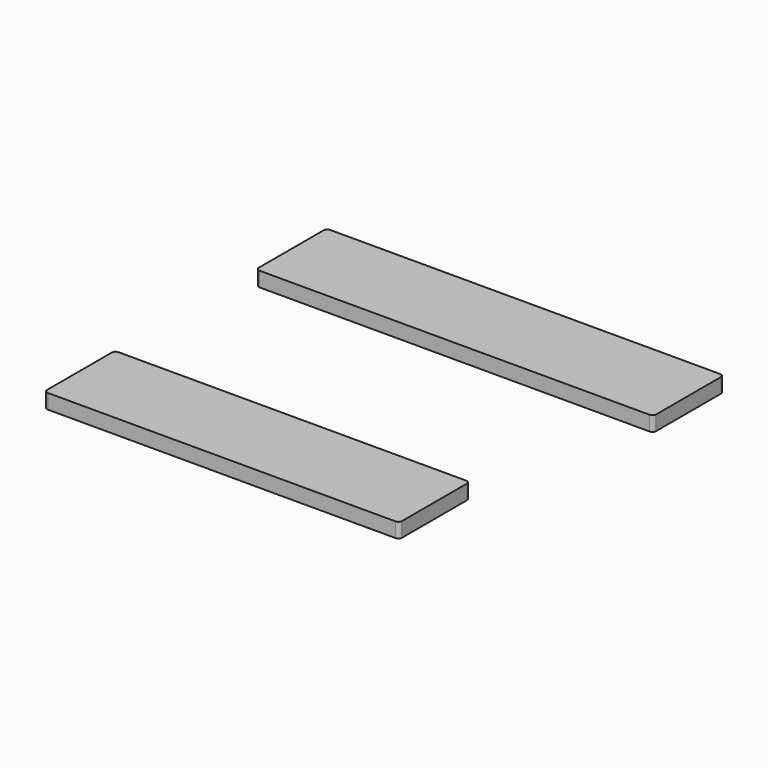
from build123d import *

# Parameters (mm, degrees)
F0_W     = 685.8
F0_H     = 152.4
F0_W_2   = 612.775
F1_DEPTH = 25.4
F2_R     = 6.35


with BuildPart() as f1:
    # F0 (on Top) → F1 (new body)
    with BuildSketch(Plane.XY):
        with Locations((342.9, 76.2)):
            Rectangle(F0_W, F0_H)
        with Locations((306.3875, -380.671084)):
            Rectangle(F0_W_2, F0_H)
    extrude(amount=F1_DEPTH)

    # F2
    f2_edges = [f1.edges().sort_by_distance(p)[0] for p in [
        (0, 152.4, 12.7),
        (0, 0, 12.7),
        (685.8, 0, 12.7),
        (685.8, 152.4, 12.7),
        (612.775, -456.871084, 12.7),
        (0, -456.871084, 12.7),
        (0, -304.471084, 12.7),
        (612.775, -304.471084, 12.7),
    ]]
    fillet(f2_edges, radius=F2_R)


solid = f1.part
